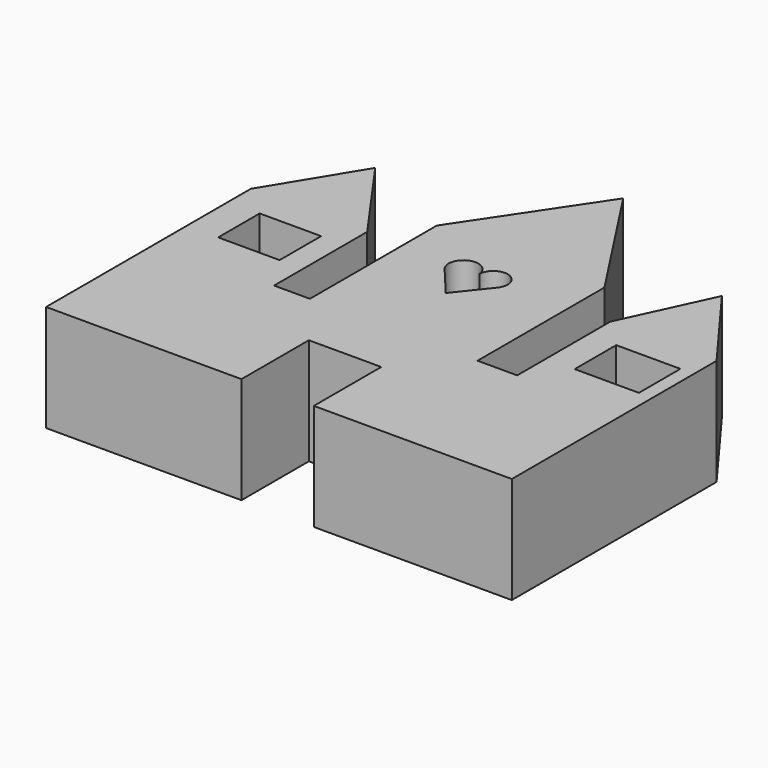
from build123d import *

# Parameters (mm, degrees)
F0_W     = 14.643946
F0_H     = 12.365998
F0_W_2   = 15.294782
F1_DEPTH = 25.4


with BuildPart() as f1:
    # F0 (on Top) → F1 (new body)
    with BuildSketch(Plane.XY):
        Polygon((0, -12.0396), (-8.534401, -12.0396), (-8.534401, 15.6972), (-23.469601, 36.728401), (-36.2712, 15.6972), (-36.2712, -12.0396), (-36.2712, -45.262802), (10.267616, -45.262802), (10.267616, -25.193093), (27.514929, -25.193093), (27.514929, -45.262802), (74.676, -45.262802), (74.676, -12.0396), (74.676, 15.6972), (59.131198, 36.728401), (49.377602, 15.6972), (49.377602, -12.0396), (39.928801, -12.0396), (39.928801, 25.755599), (20.226937, 55.969056), (0, 25.755599), align=None)
        with Locations((-21.460931, 2.793112)):
            Rectangle(F0_W, F0_H, mode=Mode.SUBTRACT)
        with Locations((63.79937, 2.793112)):
            Rectangle(F0_W_2, F0_H, mode=Mode.SUBTRACT)
        with BuildLine():
            ThreePointArc((11.780126, 13.316013), (13.714645, 18.539883), (18.367297, 15.476549))
            ThreePointArc((18.367297, 15.476549), (22.927801, 18.568098), (24.415447, 13.263121))
            Line((24.415447, 13.263121), (18.27416, 5.56163))
            Line((18.27416, 5.56163), (12.474802, 12.486515))
            ThreePointArc((12.474802, 12.486515), (12.095749, 12.874704), (11.780126, 13.316013))
        make_face(mode=Mode.SUBTRACT)
    extrude(amount=F1_DEPTH)


solid = f1.part
